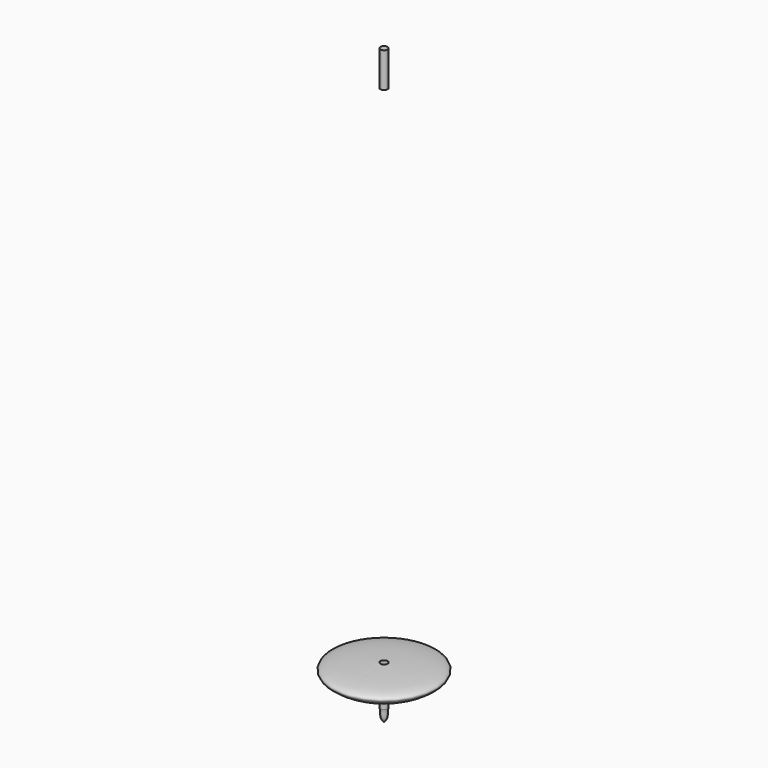
from build123d import *

# Parameters (mm, degrees)
F0_W     = 2.1102636238
F0_H     = 0.3483593464
F4_R     = 0.2999620651
F5_DEPTH = 2.921


with BuildPart() as f1:
    # F0 (on Right) → F1 (revolve)
    with BuildSketch(Plane.YZ):
        with BuildLine():
            Line((0, -46.527415514), (0, -42.5090119243))
            Line((0, -42.5090119243), (-0.3, -42.5090119243))
            Line((-0.3, -42.5090119243), (-0.3, -42.1606525779))
            add(Edge.make_bspline(
                [(-0.3, -42.1606525779), (-1.9435562564, -42.2092112368), (-6.7124556668, -42.2828893694), (-2.0001339672, -44.0252055029), (-0.3, -44.9050143361)],
                knots=[0, 0, 0, 0, 0.4843293501, 1, 1, 1, 1], degree=3))
            Line((-0.3, -44.9050143361), (-0.3, -45.456122607))
            add(Edge.make_bspline(
                [(-0.3, -45.456122607), (-0.2, -45.8132202427), (-0.3599610354, -46.2772659957), (0, -46.527415514)],
                knots=[0, 0, 0, 0, 1.1125055023, 1.1125055023, 1.1125055023, 1.1125055023], degree=3))
        make_face()
    revolve(axis=Axis((0, 0, -44.5182137191), (0, 0, -1)))


with BuildPart() as f2:
    # F0 (on Right) → F2 (revolve)
    with BuildSketch(Plane.YZ):
        with Locations((-3.9339110663, -48.2831820846)):
            Rectangle(F0_W, F0_H)
    revolve(axis=Axis((0, -3.9339110663, -48.4573617578), (0, 1, 0)))


with BuildPart() as f5:
    # F4 (on Top) → F5 (new body)
    with BuildSketch(Plane.XY):
        Circle(F4_R)
    extrude(amount=F5_DEPTH)


solid = Compound([f1.part, f5.part])
